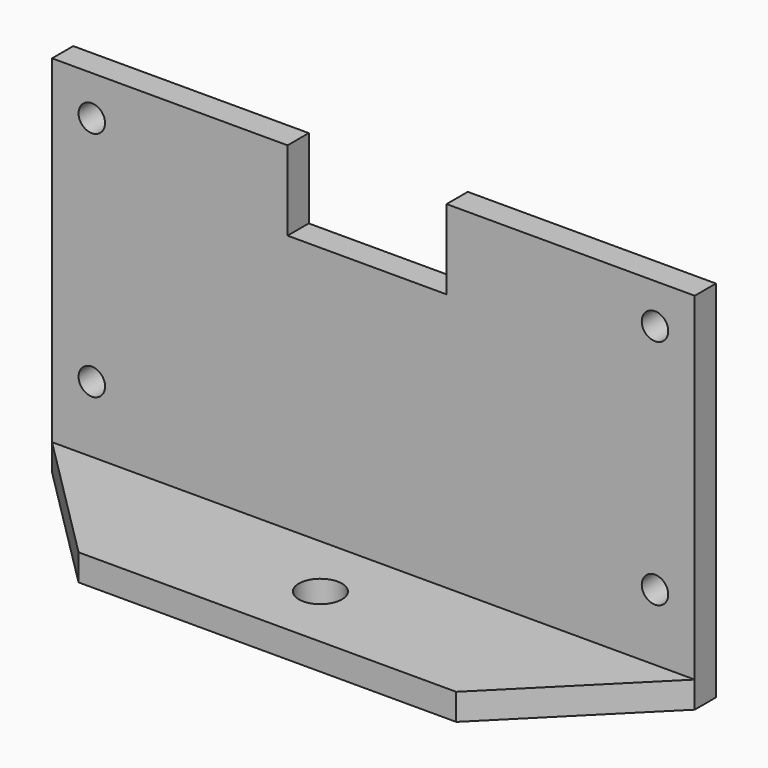
from build123d import *

# Parameters (mm, degrees)
F2_DEPTH = 2
F3_D     = 2
F4_D     = 2
F5_D     = 2
F6_D     = 2
F1_W     = 48.5
F1_H     = 2
F7_DEPTH = 12
F8_SIZE  = 10
F9_SIZE  = 10
F12_D    = 3.25


with BuildPart() as f2:
    # F0 (on Front) → F2 (new body)
    with BuildSketch(Plane.XZ):
        Polygon((-24.25, 11.75), (-24.25, -13.75), (24.25, -13.75), (24.25, 11.75), (5.5228731483, 11.75), (5.5228731483, 5.75), (-6.4771268517, 5.75), (-6.4771268517, 11.75), align=None)
    extrude(amount=F2_DEPTH)

    # F3 (through all)
    with Locations(Plane(origin=(0, 0, 0), x_dir=(1, 0, 0), z_dir=(0, 1, 0))):
        with Locations((-21.25, -8.75)):
            Hole(F3_D / 2)

    # F4 (through all)
    with Locations(Plane(origin=(0, 0, 0), x_dir=(1, 0, 0), z_dir=(0, 1, 0))):
        with Locations((-21.25, 8.75)):
            Hole(F4_D / 2)

    # F5 (through all)
    with Locations(Plane(origin=(0, 0, 0), x_dir=(1, 0, 0), z_dir=(0, 1, 0))):
        with Locations((21.25, -8.75)):
            Hole(F5_D / 2)

    # F6 (through all)
    with Locations(Plane(origin=(0, 0, 0), x_dir=(1, 0, 0), z_dir=(0, 1, 0))):
        with Locations((21.25, 8.75)):
            Hole(F6_D / 2)

    # F1 (on Front) → F7 (join)
    with BuildSketch(Plane.XZ):
        with Locations((0, -14.75)):
            Rectangle(F1_W, F1_H)
    extrude(amount=F7_DEPTH)

    # F8
    f8_edges = [f2.edges().sort_by_distance(p)[0] for p in [
        (24.25, -12, -14.75),
    ]]
    chamfer(f8_edges, length=F8_SIZE)

    # F9
    f9_edges = [f2.edges().sort_by_distance(p)[0] for p in [
        (-24.25, -12, -14.75),
    ]]
    chamfer(f9_edges, length=F9_SIZE)

    # F12 (through all)
    with Locations(Plane(origin=(0, 0, -15.75), x_dir=(1, 0, 0), z_dir=(0, 0, -1))):
        with Locations((0, 7)):
            Hole(F12_D / 2)


solid = f2.part
